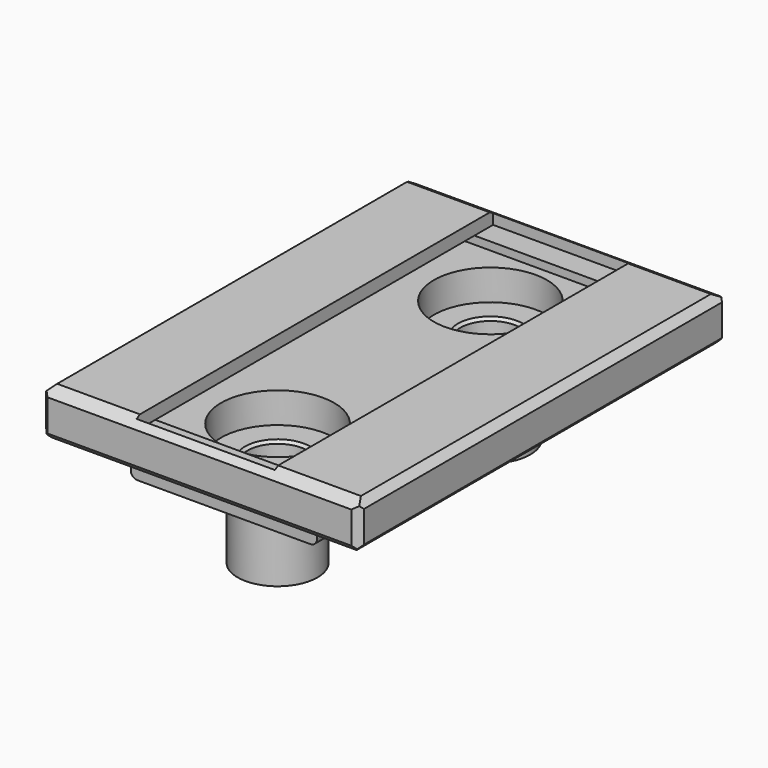
from build123d import *

# Parameters (mm, degrees)
SKETCH005_W     = 30
SKETCH005_H     = 0.6
PAD003_DEPTH    = 7
SKETCH_W        = 23.9
SKETCH_H        = 34.7
PAD_DEPTH       = 3.4
SKETCH001_W     = 10.4
SKETCH001_H     = 33.5
POCKET_DEPTH    = 0.95
SKETCH002_W     = 14
SKETCH002_H     = 30.1
PAD001_DEPTH    = 1.95
FILLET_R        = 0.5
SKETCH003_R     = 3
PAD002_DEPTH    = 5.4
SKETCH004_R     = 1.62
POCKET001_DEPTH = 10.751
SKETCH006_R     = 4.25
POCKET002_DEPTH = 2.3
SKETCH007_R     = 2.25
POCKET003_DEPTH = 1.5
CHAMFER_SIZE    = 0.2
CHAMFER001_SIZE = 0.53
CHAMFER002_SIZE = 0.51
CHAMFER003_SIZE = 0.48
POCKET004_DEPTH = 23.901
CHAMFER004_SIZE = 0.53


with BuildPart() as pad003:
    # Sketch005 → Pad003 (new body, symmetric)
    with BuildSketch(Plane.YZ):
        with Locations((0, 2.15)):
            Rectangle(SKETCH005_W, SKETCH005_H)
    extrude(amount=PAD003_DEPTH, both=True)


with BuildPart() as chamfer004:
    # Sketch → Pad (new body)
    with BuildSketch(Plane.XY):
        Rectangle(SKETCH_W, SKETCH_H)
    extrude(amount=PAD_DEPTH)

    # Sketch001 → Pocket (cut)
    with BuildSketch(Plane.XY.offset(3.4)):
        Rectangle(SKETCH001_W, SKETCH001_H)
    extrude(amount=-POCKET_DEPTH, mode=Mode.SUBTRACT)

    # Sketch002 → Pad001 (new body)
    with BuildSketch(Plane(origin=(0, 0, 0), x_dir=(1, 0, 0), z_dir=(0, 0, -1))):
        Rectangle(SKETCH002_W, SKETCH002_H)
    extrude(amount=PAD001_DEPTH)

    # Fillet
    fillet_edges = [chamfer004.edges().sort_by_distance(p)[0] for p in [
        (7, 0, -1.95),
        (-7, 0, -1.95),
    ]]
    fillet(fillet_edges, radius=FILLET_R)

    # Sketch003 → Pad002 (new body)
    with BuildSketch(Plane(origin=(0, 0, -1.95), x_dir=(1, 0, 0), z_dir=(0, 0, -1))):
        with Locations((0, 10)):
            Circle(SKETCH003_R)
        with Locations((0, -10)):
            Circle(SKETCH003_R)
    extrude(amount=PAD002_DEPTH)

    # Sketch004 → Pocket001 (cut, through all)
    with BuildSketch(Plane(origin=(0, 0, -7.35), x_dir=(1, 0, 0), z_dir=(0, 0, -1))):
        with Locations((0, -10)):
            Circle(SKETCH004_R)
        with Locations((0, 10)):
            Circle(SKETCH004_R)
    extrude(amount=-POCKET001_DEPTH, mode=Mode.SUBTRACT)

    # Cut: cut Pad003
    add(pad003.part, mode=Mode.SUBTRACT)

    # Sketch006 → Pocket002 (cut)
    with BuildSketch(Plane.XY.offset(1.85)):
        with Locations((0, 10)):
            Circle(SKETCH006_R)
        with Locations((0, -10)):
            Circle(SKETCH006_R)
    extrude(amount=-POCKET002_DEPTH, mode=Mode.SUBTRACT)

    # Sketch007 → Pocket003 (cut)
    with BuildSketch(Plane.XY.offset(-0.45)):
        with Locations((0, 10)):
            Circle(SKETCH007_R)
        with Locations((0, -10)):
            Circle(SKETCH007_R)
    extrude(amount=-POCKET003_DEPTH, mode=Mode.SUBTRACT)

    # Chamfer
    chamfer_edges = [chamfer004.edges().sort_by_distance(p)[0] for p in [
        (-2.25, 10, -0.45),
        (-2.25, -10, -0.45),
    ]]
    chamfer(chamfer_edges, length=CHAMFER_SIZE)

    # Chamfer001
    chamfer001_edges = [chamfer004.edges().sort_by_distance(p)[0] for p in [
        (11.95, 0, 3.4),
        (-11.95, 0, 3.4),
    ]]
    chamfer(chamfer001_edges, length=CHAMFER001_SIZE)

    # Chamfer002
    chamfer002_edges = [chamfer004.edges().sort_by_distance(p)[0] for p in [
        (11.95, 0, 0),
        (-11.95, 0, 0),
    ]]
    chamfer(chamfer002_edges, length=CHAMFER002_SIZE)

    # Chamfer003
    chamfer003_edges = [chamfer004.edges().sort_by_distance(p)[0] for p in [
        (0, -17.35, 0),
        (0, 17.35, 0),
    ]]
    chamfer(chamfer003_edges, length=CHAMFER003_SIZE)

    # Sketch008 → Pocket004 (cut, through all)
    with BuildSketch(Plane.YZ.offset(11.95)):
        Polygon((-16.440673, 3.4), (-17.35, 3.4), (-17.35, 2.875), align=None)
        Polygon((16.440673, 3.4), (17.35, 3.4), (17.35, 2.875), align=None)
    extrude(amount=-POCKET004_DEPTH, mode=Mode.SUBTRACT)

    # Chamfer004
    chamfer004_edges = [chamfer004.edges().sort_by_distance(p)[0] for p in [
        (11.95, -17.35, 1.69),
        (11.95, 17.35, 1.69),
        (-11.95, 17.35, 1.69),
        (-11.95, -17.35, 1.69),
    ]]
    chamfer(chamfer004_edges, length=CHAMFER004_SIZE)


solid = chamfer004.part
